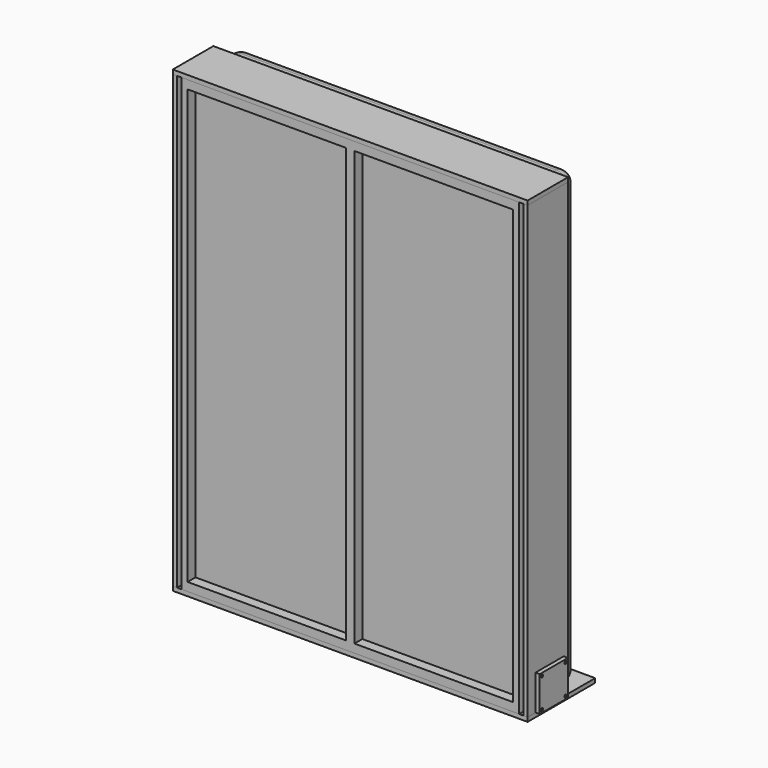
from build123d import *

# Parameters (mm, degrees)
F0_W      = 1524
F0_H      = 2032
F0_W_2    = 714.375
F0_H_2    = 1955.8
F1_DEPTH  = 44.45
F2_W      = 1524
F2_H      = 2032
F3_DEPTH  = 279.4
F4_R      = 50.8
F5_W      = 1600.2
F5_H      = 19.05
F6_DEPTH  = 381
F7_W      = 19.05
F7_H      = 2032
F8_DEPTH  = 228.6
F11_W     = 1600.2
F11_H     = 19.05
F12_DEPTH = 228.6
F13_W     = 158.75
F13_H     = 158.75
F13_R     = 6.35
F14_DEPTH = 19.05


with BuildPart() as f1:
    # F0 (on Front) → F1 (new body)
    with BuildSketch(Plane.XZ):
        with Locations((0, -1016)):
            Rectangle(F0_W, F0_H)
        with Locations((-376.2375, -1016)):
            Rectangle(F0_W_2, F0_H_2, mode=Mode.SUBTRACT)
        with Locations((376.2375, -1016)):
            Rectangle(F0_W_2, F0_H_2, mode=Mode.SUBTRACT)
    extrude(amount=-F1_DEPTH)


with BuildPart() as f3:
    # F2 (on face) → F3 (new body)
    with BuildSketch(Plane(origin=(0, 44.45, 0), x_dir=(-1, 0, 0), z_dir=(0, 1, 0))):
        with Locations((0, -1016)):
            Rectangle(F2_W, F2_H)
    extrude(amount=F3_DEPTH)

    # F4
    f4_edges = [f3.edges().sort_by_distance(p)[0] for p in [
        (0, 323.85, 0),
        (762, 323.85, -1016),
        (0, 323.85, -2032),
        (-762, 323.85, -1016),
        (-762, 184.15, -2032),
        (762, 184.15, -2032),
        (762, 184.15, 0),
        (-762, 184.15, 0),
    ]]
    fillet(f4_edges, radius=F4_R)


with BuildPart() as f6:
    # F5 (on face) → F6 (new body)
    with BuildSketch(Plane.XZ):
        with Locations((0, -2041.525)):
            Rectangle(F5_W, F5_H)
    extrude(amount=-F6_DEPTH)


with BuildPart() as f8:
    # F7 (on face) → F8 (new body)
    with BuildSketch(Plane.XZ):
        with Locations((-790.575, -1016)):
            Rectangle(F7_W, F7_H)
    extrude(amount=-F8_DEPTH)


with BuildPart() as f9_1:
    # F9: instance of F8
    add(f8.part.mirror(Plane.YZ))


with BuildPart() as f12:
    # F11 (on face) → F12 (new body, through all)
    with BuildSketch(Plane.XZ):
        with Locations((0, 9.525)):
            Rectangle(F11_W, F11_H)
    extrude(amount=-F12_DEPTH)


with BuildPart() as f14:
    # F13 (on face) → F14 (new body)
    with BuildSketch(Plane(origin=(-800.1, 0, 0), x_dir=(0, -1, 0), z_dir=(-1, 0, 0))):
        with Locations((-123.825, -1952.625)):
            Rectangle(F13_W, F13_H)
        with Locations((-190.5, -2019.3)):
            Circle(F13_R, mode=Mode.SUBTRACT)
        with Locations((-57.15, -2019.3)):
            Circle(F13_R, mode=Mode.SUBTRACT)
        with Locations((-190.5, -1885.95)):
            Circle(F13_R, mode=Mode.SUBTRACT)
        with Locations((-57.15, -1885.95)):
            Circle(F13_R, mode=Mode.SUBTRACT)
    extrude(amount=F14_DEPTH)


with BuildPart() as f15_1:
    # F15: instance of F14
    add(f14.part.mirror(Plane.YZ))


solid = Compound([f1.part, f3.part, f6.part, f8.part, f9_1.part, f12.part, f14.part, f15_1.part])
